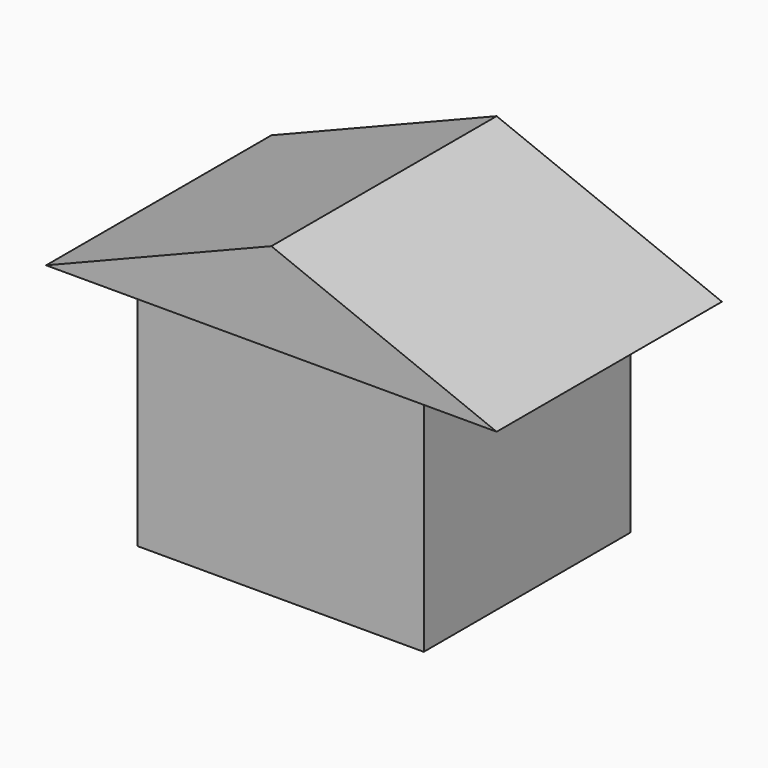
from build123d import *

# Parameters (mm, degrees)
F1_DEPTH = 100
F3_DEPTH = 62.5


with BuildPart() as f1:
    # F0 (on Top) → F1 (new body)
    with BuildSketch(Plane.XY):
        Polygon((53.488051, 47.301205), (53.488051, -47.301205), (-53.488051, -47.301205), (-53.488051, 47.301205), (7.838542, 47.301205), (7.838542, 57.301205), (-63.488051, 57.301205), (-63.488051, -57.301205), (63.488051, -57.301205), (63.488051, 57.301205), (34.413531, 57.301205), (34.413531, 47.301205), align=None)
    extrude(amount=F1_DEPTH)


with BuildPart() as f3:
    # F2 (on Front) → F3 (new body, symmetric)
    with BuildSketch(Plane.XZ):
        Polygon((100, 100), (0, 140), (-100, 100), align=None)
    extrude(amount=F3_DEPTH, both=True)


solid = Compound([f1.part, f3.part])
